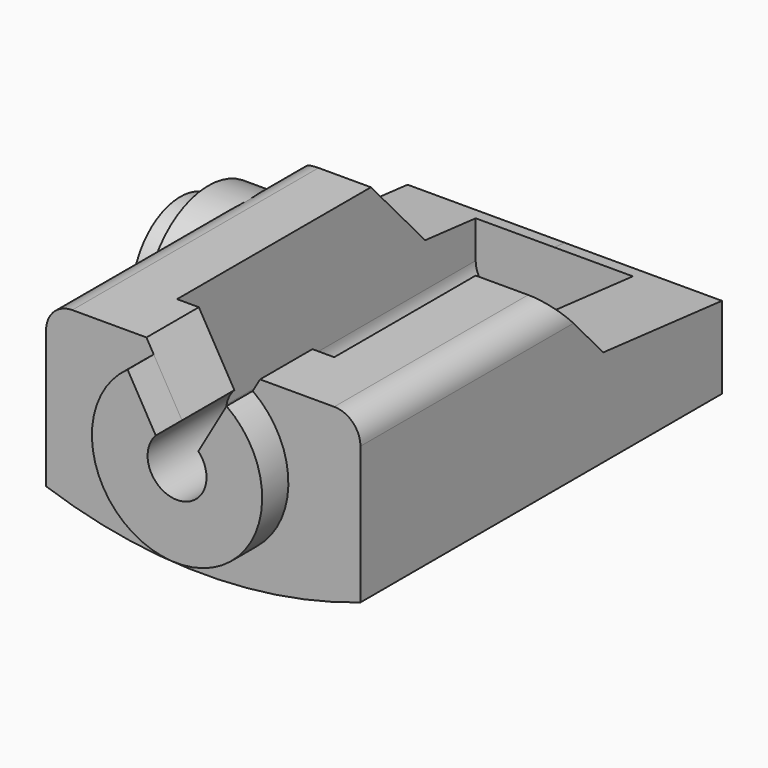
from build123d import *

# Parameters (mm, degrees)
PAD_DEPTH       = 69
POCKET_DEPTH    = 57
POCKET001_DEPTH = 10
PAD001_DEPTH    = 5
POCKET002_DEPTH = 24.001
POCKET003_DEPTH = 24.001
SKETCH006_R     = 12
PAD002_DEPTH    = 10
SKETCH007_R     = 9.1
PAD003_DEPTH    = 4.3


with BuildPart() as part:
    # Sketch → Pad (new body)
    with BuildSketch(Plane.XZ):
        with BuildLine():
            Line((-24, -12.5), (-24, 8.5))
            ThreePointArc((-20, 12.5), (-22.828427, 11.328427), (-24, 8.5))
            Line((-20, 12.5), (20, 12.5))
            ThreePointArc((24, 8.5), (22.828427, 11.328427), (20, 12.5))
            Line((24, 8.5), (24, -12.5))
            ThreePointArc((-24, -12.5), (0, -16.5), (24, -12.5))
        make_face()
    extrude(amount=-PAD_DEPTH)

    # Sketch001 → Pocket (cut)
    with BuildSketch(Plane.XZ.offset(-10)):
        with BuildLine():
            Line((-12, -5.5), (-12, 12.5))
            Line((-12, 12.5), (12, 12.5))
            Line((12, 12.5), (12, -5.5))
            ThreePointArc((8, -9.5), (10.828427, -8.328427), (12, -5.5))
            Line((8, -9.5), (-8, -9.5))
            ThreePointArc((-12, -5.5), (-10.828427, -8.328427), (-8, -9.5))
        make_face()
    extrude(amount=-POCKET_DEPTH, mode=Mode.SUBTRACT)

    # Sketch002 → Pocket001 (cut)
    with BuildSketch(Plane.XZ):
        with BuildLine():
            ThreePointArc((-3.25, 3.112475), (0, -4.5), (3.25, 3.112475))
            Line((8.66989, 12.5), (3.25, 3.112475))
            Line((-8.66989, 12.5), (8.66989, 12.5))
            Line((-3.25, 3.112475), (-8.66989, 12.5))
        make_face()
    extrude(amount=-POCKET001_DEPTH, mode=Mode.SUBTRACT)

    # Sketch003 → Pad001 (join)
    with BuildSketch(Plane.XZ):
        with BuildLine():
            ThreePointArc((-3.25, 3.112475), (0, -4.5), (3.25, 3.112475))
            Line((7.559237, 10.576292), (3.25, 3.112475))
            ThreePointArc((-7.559237, 10.576292), (0, -13), (7.559237, 10.576292))
            Line((-7.559237, 10.576292), (-3.25, 3.112475))
        make_face()
    extrude(amount=PAD001_DEPTH)

    # Sketch004 → Pocket002 (cut, through all)
    with BuildSketch(Plane.YZ):
        Polygon((69, 12.5), (69, 0), (46.356987, 2.26935), (37, 12.5), align=None)
    extrude(amount=POCKET002_DEPTH, mode=Mode.SUBTRACT)

    # Sketch005 → Pocket003 (cut, through all)
    with BuildSketch(Plane.YZ):
        Polygon((47, 12.5), (57.366132, 1.165981), (69, 0), (69, 12.5), align=None)
    extrude(amount=-POCKET003_DEPTH, mode=Mode.SUBTRACT)

    # Sketch006 → Pad002 (join)
    with BuildSketch(Plane.YZ.offset(-28)):
        with Locations((36, 0)):
            Circle(SKETCH006_R)
    extrude(amount=PAD002_DEPTH)

    # Sketch007 → Pad003 (join)
    with BuildSketch(Plane.YZ.offset(-28)):
        with Locations((36, 0)):
            Circle(SKETCH007_R)
    extrude(amount=-PAD003_DEPTH)


solid = part.part
